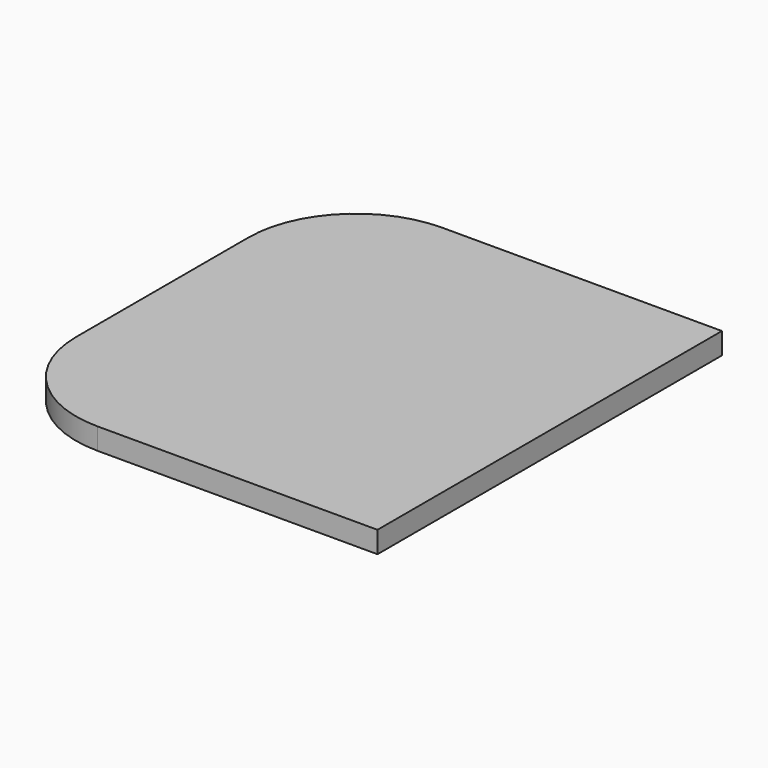
from build123d import *

# Parameters (mm, degrees)
PAD_DEPTH = 1


with BuildPart() as part:
    # Sketch → Pad (new body)
    with BuildSketch(Plane.XY):
        with BuildLine():
            Line((-4, 10), (9, 10))
            Line((9, 10), (9, -10))
            Line((9, -10), (-4, -10))
            ThreePointArc((-9, -5), (-7.535534, -8.535534), (-4, -10))
            Line((-9, -5), (-9, 5))
            ThreePointArc((-4, 10), (-7.535534, 8.535534), (-9, 5))
        make_face()
    extrude(amount=PAD_DEPTH)


solid = part.part
